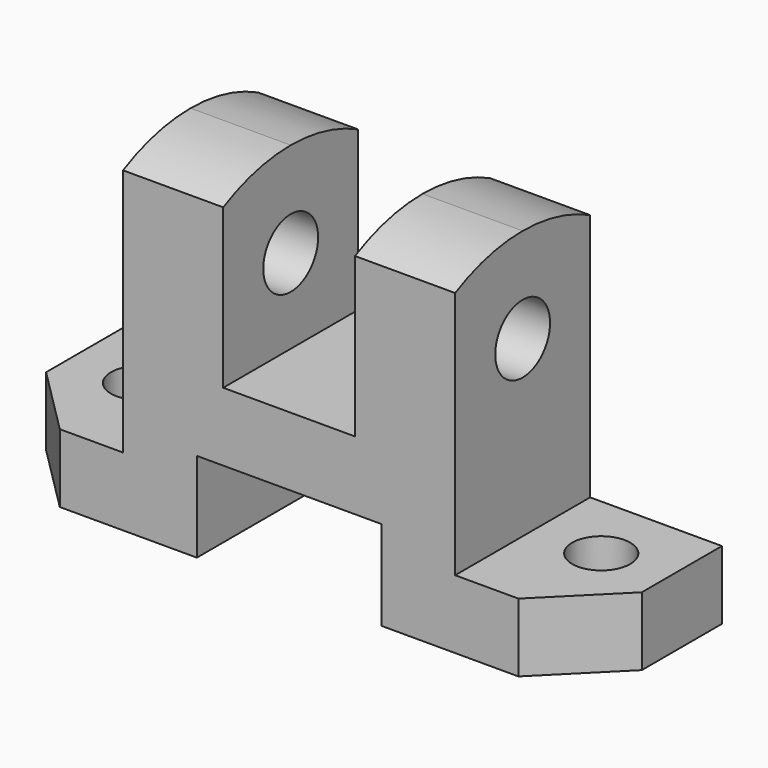
from build123d import *

# Parameters (mm, degrees)
F0_W       = 2870.2
F0_H       = 330.2
F1_DEPTH   = 25.4
F2_DEPTH   = 812.8
F3_W       = 482.6
F3_H       = 1295.4
F4_DEPTH   = 812.8
F5_W       = 635
F5_H       = 431.8
F6_DEPTH   = 812.8
F7_W       = 889
F7_H       = 431.8
F8_DEPTH   = 812.801
F9_R       = 139.7
F10_DEPTH  = 330.201
F11_SIZE2  = 330.2
F11_SIZE   = 330.2
F12_R      = 165.1
F13_DEPTH  = 25.4
F13_FACE_R = 165.1
F14_DEPTH  = 2260.601
F16_DEPTH  = 2235.201


with BuildPart() as f1:
    # F0 (on Front) → F1 (new body)
    with BuildSketch(Plane.XZ):
        Rectangle(F0_W, F0_H)
    extrude(amount=F1_DEPTH)

    # F0 (on Front) → F2 (join)
    with BuildSketch(Plane.XZ):
        Rectangle(F0_W, F0_H)
    extrude(amount=F2_DEPTH)

    # F3 (on face) → F4 (join)
    with BuildSketch(Plane.XZ.offset(812.8)):
        with Locations((-558.8, 812.8)):
            Rectangle(F3_W, F3_H)
        with Locations((558.8, 812.8)):
            Rectangle(F3_W, F3_H)
    extrude(amount=-F4_DEPTH)

    # F5 (on face) → F6 (join)
    with BuildSketch(Plane.XZ.offset(812.8)):
        with Locations((0, 381)):
            Rectangle(F5_W, F5_H)
    extrude(amount=-F6_DEPTH)

    # F7 (on face) → F8 (cut, through all)
    with BuildSketch(Plane.XZ.offset(812.8)):
        with Locations((0, 50.8)):
            Rectangle(F7_W, F7_H)
    extrude(amount=-F8_DEPTH, mode=Mode.SUBTRACT)

    # F9 (on face) → F10 (cut, through all)
    with BuildSketch(Plane.XY.offset(165.1)):
        with Locations((1117.6, -330.2)):
            Circle(F9_R)
        with Locations((-1104.9, -330.2)):
            Circle(F9_R)
    extrude(amount=-F10_DEPTH, mode=Mode.SUBTRACT)

    # F11
    f11_edges = [f1.edges().sort_by_distance(p)[0] for p in [
        (-1435.1, -812.8, 0),
        (1435.1, -812.8, 0),
    ]]
    chamfer(f11_edges, length=F11_SIZE, length2=F11_SIZE2)

    # F12 (on face) → F13 (join)
    with BuildSketch(Plane.YZ.offset(800.1)):
        with Locations((-406.4, 1003.3)):
            Circle(F12_R)
    extrude(amount=F13_DEPTH)

    # F13_face (on face) → F14 (cut, through all)
    with BuildSketch(Plane(origin=(825.5, -406.4, 1003.3), x_dir=(0, 1, 0), z_dir=(1, 0, 0))):
        Circle(F13_FACE_R)
    extrude(amount=-F14_DEPTH, mode=Mode.SUBTRACT)

    # F15 (on face) → F16 (cut, through all)
    with BuildSketch(Plane.YZ.offset(800.1)):
        with BuildLine():
            ThreePointArc((-814.493537, 1361.297863), (-616.388928, 1435.343533), (-406.4, 1460.5))
            Line((-406.4, 1460.5), (-812.8, 1460.5))
            Line((-812.8, 1460.5), (-814.493537, 1361.297863))
        make_face()
        with BuildLine():
            ThreePointArc((-406.4, 1460.5), (-197.336836, 1435.568049), (0, 1362.170627))
            Line((0, 1362.170627), (0, 1460.5))
            Line((0, 1460.5), (-406.4, 1460.5))
        make_face()
    extrude(amount=-F16_DEPTH, mode=Mode.SUBTRACT)


solid = f1.part
